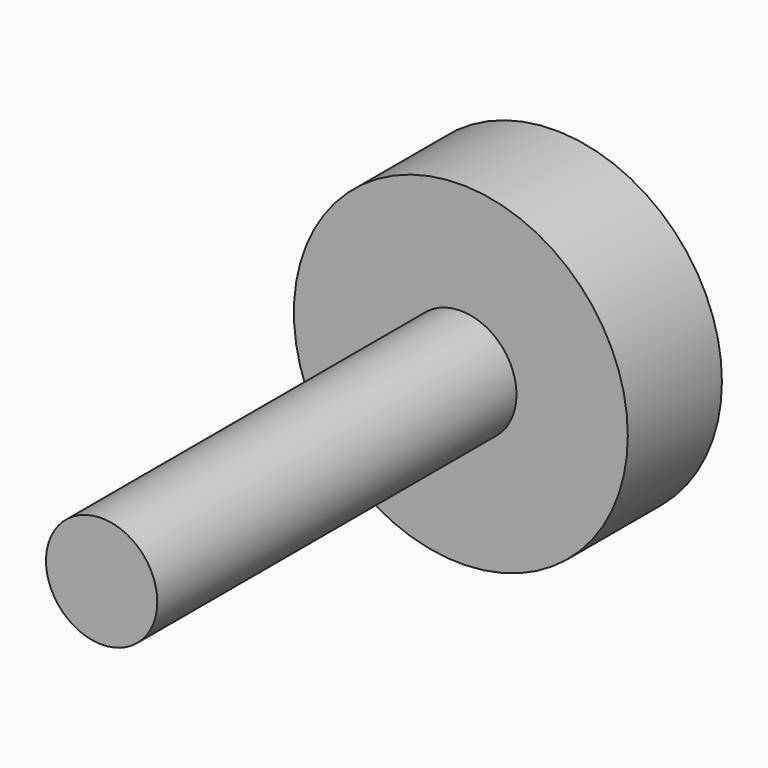
from build123d import *

# Parameters (mm, degrees)
F1_FACE_R = 20.422399044
F3_DEPTH  = 10


with BuildPart() as f1:
    # F0 (on Top) → F1 (revolve)
    with BuildSketch(Plane.XY):
        Polygon((20.422399044, 14.3885072321), (0, 14.3885072321), (0, -54.9238733947), (6.8074651062, -54.9238733947), (6.8074651062, 0), (20.422399044, 0), align=None)
    revolve(axis=Axis((0, -20.2676830813, 0), (0, 1, 0)))

    # F2 (on Front) + F1_face (on face) → F3 (join)
    with BuildSketch(Plane.XZ):
        Polygon((5.5759802661, -0.1642436698), (2.9302293235, 4.7468187265), (-2.6457509426, 4.9110623963), (-5.5759802661, 0.1642436698), (-2.9302293235, -4.7468187265), (2.6457509426, -4.9110623963), align=None)
    with BuildSketch(Plane(origin=(0, 14.3885072321, 0), x_dir=(-1, 0, 0), z_dir=(0, 1, 0))):
        Circle(F1_FACE_R)
    extrude(amount=F3_DEPTH, dir=(0, -1, 0))


solid = f1.part
